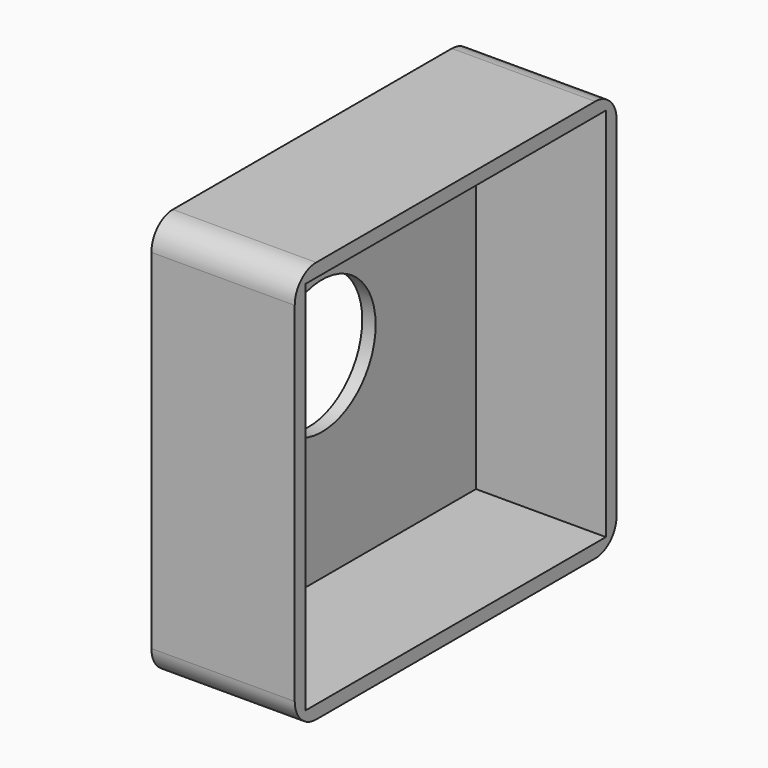
from build123d import *

# Parameters (mm, degrees)
F1_DEPTH = 27.14701
F2_T     = -2.54
F3_R     = 5.08
F4_R     = 12.7
F5_DEPTH = 51.567206


with BuildPart() as f1:
    # F0 (on Right) → F1 (new body)
    with BuildSketch(Plane.YZ):
        Polygon((-28.252147, 57.261179), (-66.352147, 57.261179), (-66.352147, -18.938821), (9.847853, -18.938821), (9.847853, 57.261179), align=None)
    extrude(amount=F1_DEPTH)

    # F2
    f2_openings = [f1.faces().sort_by_distance(p)[0] for p in [
        (27.14701, -28.252147, 19.161179),
    ]]
    offset(amount=F2_T, openings=f2_openings)

    # F3
    f3_edges = [f1.edges().sort_by_distance(p)[0] for p in [
        (13.573505, 9.847853, -18.938821),
        (13.573505, 9.847853, 57.261179),
        (13.573505, -66.352147, -18.938821),
        (13.573505, -66.352147, 57.261179),
    ]]
    fillet(f3_edges, radius=F3_R)

    # F4 (on face) → F5 (cut)
    with BuildSketch(Plane.YZ.offset(2.54)):
        with Locations((-29.138448, 20.637747)):
            Circle(F4_R)
    extrude(amount=-F5_DEPTH, mode=Mode.SUBTRACT)


solid = f1.part
